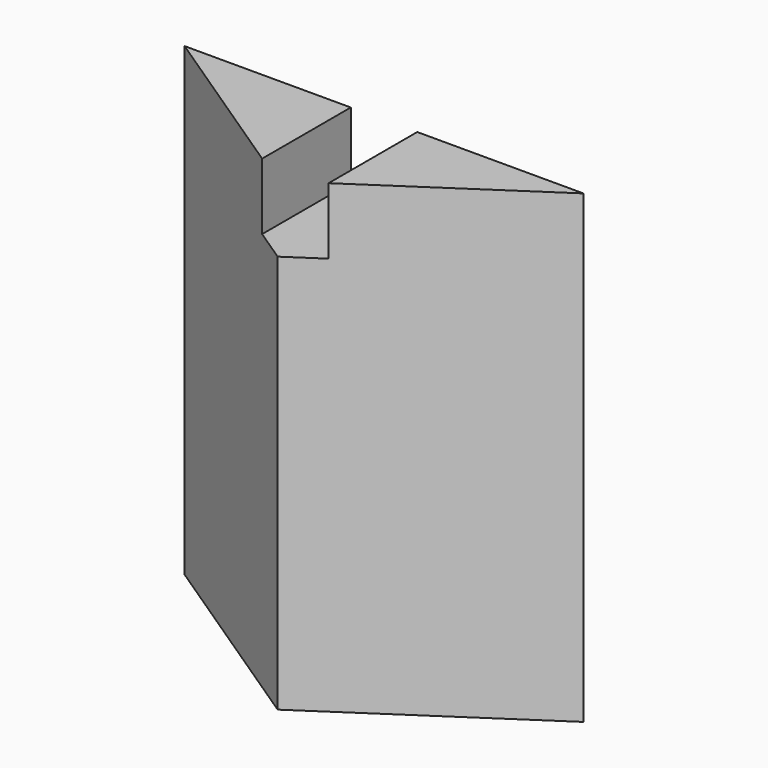
from build123d import *

# Parameters (mm, degrees)
F1_DEPTH = 44.45
F2_W     = 6.35
F2_H     = 6.35
F3_DEPTH = 25.4


with BuildPart() as f1:
    # F0 (on Top) → F1 (new body)
    with BuildSketch(Plane.XY):
        Polygon((-19.05, 12.7), (0, 0), (0, 12.7), (-12.7, 12.7), align=None)
        Polygon((0, 12.7), (0, 0), (19.05, 12.7), (12.7, 12.7), align=None)
    extrude(amount=F1_DEPTH)

    # F2 (on face) → F3 (cut)
    with BuildSketch(Plane(origin=(0, 12.7, 0), x_dir=(-1, 0, 0), z_dir=(0, 1, 0))):
        with Locations((0, 41.275)):
            Rectangle(F2_W, F2_H)
    extrude(amount=-F3_DEPTH, mode=Mode.SUBTRACT)


solid = f1.part
